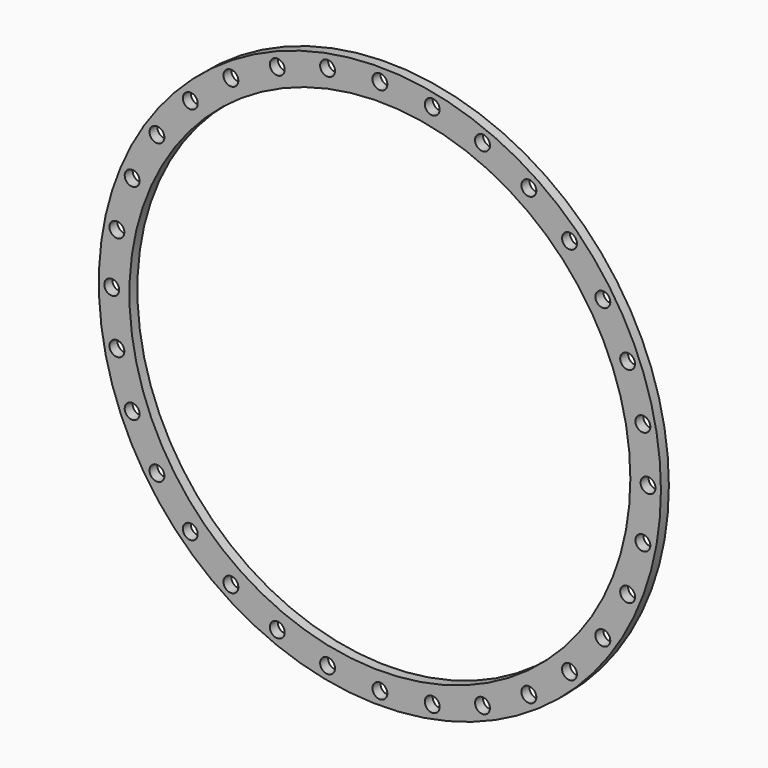
from build123d import *

# Parameters (mm, degrees)
F0_R     = 359.41
F0_R_2   = 9.525
F0_R_3   = 320.294
F1_DEPTH = 12.7


with BuildPart() as f1:
    # F0 (on Front) → F1 (new body)
    with BuildSketch(Plane.XZ):
        Circle(F0_R)
        with Locations((-190.505033, -285.11093)):
            Circle(F0_R_2, mode=Mode.SUBTRACT)
        with Locations((-285.11093, -190.505033)):
            Circle(F0_R_2, mode=Mode.SUBTRACT)
        with Locations((-242.466915, -242.466915)):
            Circle(F0_R_2, mode=Mode.SUBTRACT)
        with Locations((-131.222149, -316.798292)):
            Circle(F0_R_2, mode=Mode.SUBTRACT)
        with Locations((-66.896471, -336.311273)):
            Circle(F0_R_2, mode=Mode.SUBTRACT)
        with Locations((-316.798292, -131.222149)):
            Circle(F0_R_2, mode=Mode.SUBTRACT)
        with Locations((-336.311273, -66.896471)):
            Circle(F0_R_2, mode=Mode.SUBTRACT)
        with Locations((0, -342.9)):
            Circle(F0_R_2, mode=Mode.SUBTRACT)
        with Locations((66.896471, -336.311273)):
            Circle(F0_R_2, mode=Mode.SUBTRACT)
        with Locations((131.222149, -316.798292)):
            Circle(F0_R_2, mode=Mode.SUBTRACT)
        with Locations((190.505033, -285.11093)):
            Circle(F0_R_2, mode=Mode.SUBTRACT)
        with Locations((242.466915, -242.466915)):
            Circle(F0_R_2, mode=Mode.SUBTRACT)
        with Locations((285.11093, -190.505033)):
            Circle(F0_R_2, mode=Mode.SUBTRACT)
        with Locations((316.798292, -131.222149)):
            Circle(F0_R_2, mode=Mode.SUBTRACT)
        with Locations((336.311273, -66.896471)):
            Circle(F0_R_2, mode=Mode.SUBTRACT)
        with Locations((-342.9, 0)):
            Circle(F0_R_2, mode=Mode.SUBTRACT)
        with Locations((-336.311273, 66.896471)):
            Circle(F0_R_2, mode=Mode.SUBTRACT)
        with Locations((-316.798292, 131.222149)):
            Circle(F0_R_2, mode=Mode.SUBTRACT)
        with Locations((-285.11093, 190.505033)):
            Circle(F0_R_2, mode=Mode.SUBTRACT)
        with Locations((-242.466915, 242.466915)):
            Circle(F0_R_2, mode=Mode.SUBTRACT)
        with Locations((-190.505033, 285.11093)):
            Circle(F0_R_2, mode=Mode.SUBTRACT)
        with Locations((-131.222149, 316.798292)):
            Circle(F0_R_2, mode=Mode.SUBTRACT)
        with Locations((-66.896471, 336.311273)):
            Circle(F0_R_2, mode=Mode.SUBTRACT)
        Circle(F0_R_3, mode=Mode.SUBTRACT)
        with Locations((342.9, 0)):
            Circle(F0_R_2, mode=Mode.SUBTRACT)
        with Locations((336.311273, 66.896471)):
            Circle(F0_R_2, mode=Mode.SUBTRACT)
        with Locations((316.798292, 131.222149)):
            Circle(F0_R_2, mode=Mode.SUBTRACT)
        with Locations((0, 342.9)):
            Circle(F0_R_2, mode=Mode.SUBTRACT)
        with Locations((66.896471, 336.311273)):
            Circle(F0_R_2, mode=Mode.SUBTRACT)
        with Locations((131.222149, 316.798292)):
            Circle(F0_R_2, mode=Mode.SUBTRACT)
        with Locations((242.466915, 242.466915)):
            Circle(F0_R_2, mode=Mode.SUBTRACT)
        with Locations((285.11093, 190.505033)):
            Circle(F0_R_2, mode=Mode.SUBTRACT)
        with Locations((190.505033, 285.11093)):
            Circle(F0_R_2, mode=Mode.SUBTRACT)
    extrude(amount=F1_DEPTH)


solid = f1.part
